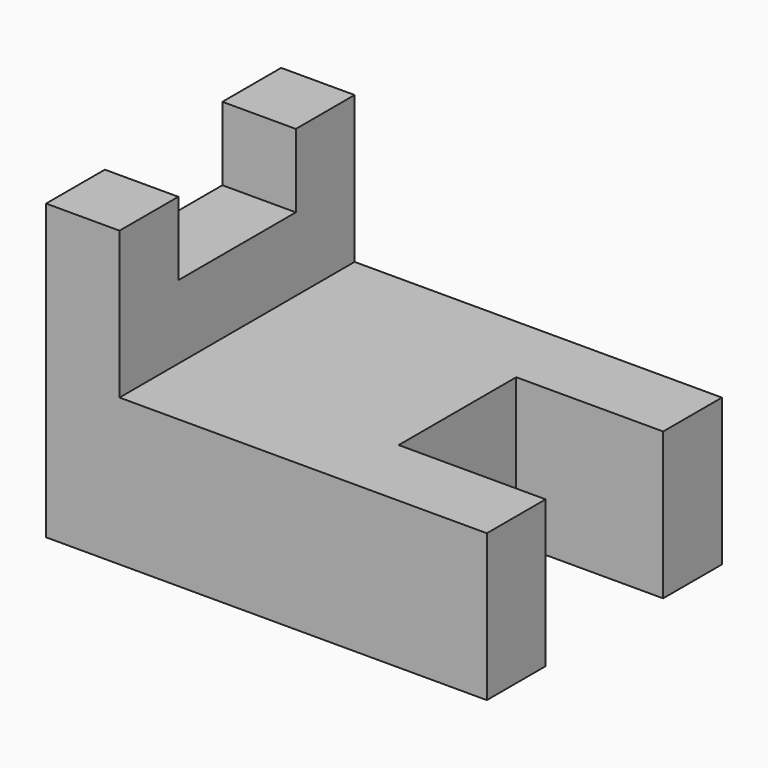
from build123d import *

# Parameters (mm, degrees)
F0_W     = 60
F0_H     = 40
F1_DEPTH = 20
F3_W     = 10
F3_H     = 40
F4_DEPTH = 20
F5_W     = 20
F5_H     = 20
F6_DEPTH = 20.001
F7_W     = 10
F7_H     = 20
F8_DEPTH = 10


with BuildPart() as f1:
    # F0 (on Top) → F1 (new body)
    with BuildSketch(Plane.XY):
        with Locations((-7.431195, 20)):
            Rectangle(F0_W, F0_H)
    extrude(amount=F1_DEPTH)

    # F3 (on face) → F4 (join)
    with BuildSketch(Plane.XY.offset(20)):
        with Locations((-32.431195, 20)):
            Rectangle(F3_W, F3_H)
    extrude(amount=F4_DEPTH)

    # F5 (on face) → F6 (cut, through all)
    with BuildSketch(Plane.XY.offset(20)):
        with Locations((12.568805, 20)):
            Rectangle(F5_W, F5_H)
    extrude(amount=-F6_DEPTH, mode=Mode.SUBTRACT)

    # F7 (on face) → F8 (cut)
    with BuildSketch(Plane.XY.offset(40)):
        with Locations((-32.431195, 20)):
            Rectangle(F7_W, F7_H)
    extrude(amount=-F8_DEPTH, mode=Mode.SUBTRACT)


solid = f1.part
